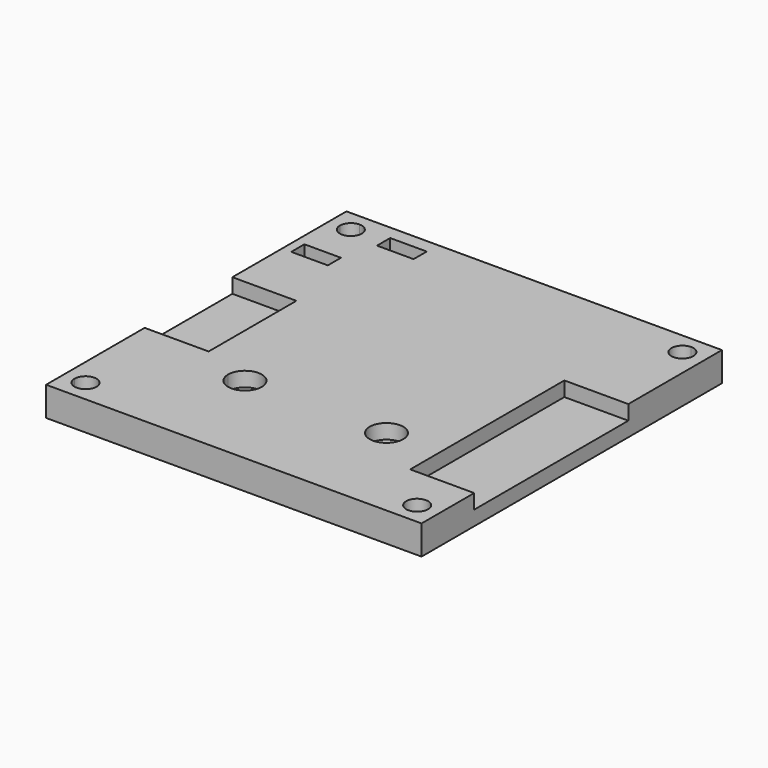
from build123d import *

# Parameters (mm, degrees)
F1_DEPTH = 4
F2_W     = 5
F2_H     = 2.25
F2_W_2   = 8.75
F2_H_2   = 15
F2_H_3   = 21.35
F2_H_4   = 5
F3_DEPTH = 2


with BuildPart() as f1:
    # F0 (on Top) → F1 (new body)
    with BuildSketch(Plane.XY):
        with BuildLine():
            Line((48.35, 0), (3, 0))
            Line((3, 0), (3, -1.5))
            ThreePointArc((3, -1.5), (4.06066, -1.93934), (4.5, -3))
            ThreePointArc((4.5, -3), (3, -4.5), (1.5, -3))
            Line((1.5, -3), (0, -3))
            Line((0, -3), (0, -48.35))
            Line((0, -48.35), (1.5, -48.35))
            ThreePointArc((1.5, -48.35), (3, -46.85), (4.5, -48.35))
            ThreePointArc((4.5, -48.35), (4.06066, -49.41066), (3, -49.85))
            Line((3, -49.85), (3, -51.35))
            Line((3, -51.35), (48.35, -51.35))
            Line((48.35, -51.35), (48.35, -49.85))
            ThreePointArc((48.35, -49.85), (47.28934, -47.28934), (49.85, -48.35))
            Line((49.85, -48.35), (51.35, -48.35))
            Line((51.35, -48.35), (51.35, -3))
            Line((51.35, -3), (49.85, -3))
            ThreePointArc((49.85, -3), (47.28934, -4.06066), (48.35, -1.5))
            Line((48.35, -1.5), (48.35, 0))
        make_face()
        with BuildLine():
            Line((1.5, -48.35), (0, -48.35))
            Line((0, -48.35), (0, -51.35))
            Line((0, -51.35), (3, -51.35))
            Line((3, -51.35), (3, -49.85))
            ThreePointArc((3, -49.85), (1.93934, -49.41066), (1.5, -48.35))
        make_face()
        with BuildLine():
            Line((51.35, -51.35), (51.35, -48.35))
            Line((51.35, -48.35), (49.85, -48.35))
            ThreePointArc((49.85, -48.35), (49.41066, -49.41066), (48.35, -49.85))
            Line((48.35, -49.85), (48.35, -51.35))
            Line((48.35, -51.35), (51.35, -51.35))
        make_face()
        with BuildLine():
            Line((51.35, 0), (48.35, 0))
            Line((48.35, 0), (48.35, -1.5))
            ThreePointArc((48.35, -1.5), (49.41066, -1.93934), (49.85, -3))
            Line((49.85, -3), (51.35, -3))
            Line((51.35, -3), (51.35, 0))
        make_face()
        with BuildLine():
            Line((3, 0), (0, 0))
            Line((0, 0), (0, -3))
            Line((0, -3), (1.5, -3))
            ThreePointArc((1.5, -3), (1.93934, -1.93934), (3, -1.5))
            Line((3, -1.5), (3, 0))
        make_face()
    extrude(amount=F1_DEPTH)

    # F2 (on face) → F3 (cut)
    with BuildSketch(Plane.XY.offset(4)):
        with Locations((3.75, -9.875)):
            Rectangle(F2_W, F2_H)
        with Locations((4.375, -27)):
            Rectangle(F2_W_2, F2_H_2)
        with BuildLine():
            Line((16, -37.35), (13.7, -37.35))
            ThreePointArc((13.7, -37.35), (14.373654, -38.976346), (16, -39.65))
            Line((16, -39.65), (16, -37.35))
        make_face()
        with BuildLine():
            ThreePointArc((18.3, -37.35), (16, -35.05), (13.7, -37.35))
            Line((13.7, -37.35), (16, -37.35))
            Line((16, -37.35), (16, -39.65))
            ThreePointArc((16, -39.65), (17.626346, -38.976346), (18.3, -37.35))
        make_face()
        with BuildLine():
            ThreePointArc((37.65, -37.35), (33.723654, -35.723654), (35.35, -39.65))
            Line((35.35, -39.65), (35.35, -37.35))
            Line((35.35, -37.35), (37.65, -37.35))
        make_face()
        with BuildLine():
            Line((35.35, -37.35), (35.35, -39.65))
            ThreePointArc((35.35, -39.65), (36.976346, -38.976346), (37.65, -37.35))
            Line((37.65, -37.35), (35.35, -37.35))
        make_face()
        with Locations((46.975, -26.675)):
            Rectangle(F2_W_2, F2_H_3)
        with Locations((46.975, -39.85)):
            Rectangle(F2_W_2, F2_H_4)
        with Locations((10, -3.025)):
            Rectangle(F2_W, F2_H)
    extrude(amount=-F3_DEPTH, mode=Mode.SUBTRACT)


solid = f1.part
